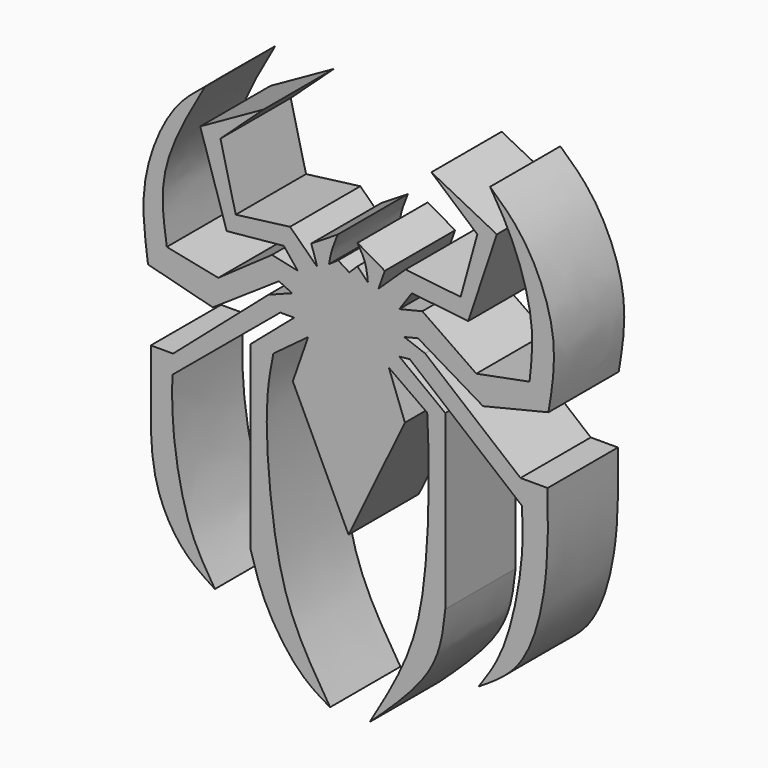
from build123d import *

# Parameters (mm, degrees)
F1_DEPTH = 25.4


with BuildPart() as f1:
    # F0 (on Front) → F1 (new body)
    with BuildSketch(Plane.XZ):
        with BuildLine():
            Line((-36.4322289824, 12.1776238084), (-26.3680759817, 19.6250956506))
            Line((-26.3680759817, 19.6250956506), (-30.7963024825, 6.9442642853))
            Line((-30.7963024825, 6.9442642853), (-14.6936606616, -26.8712826073))
            Line((-14.6936606616, -26.8712826073), (1.6102636, 6.9442642853))
            Line((1.6102636, 6.9442642853), (-3.0192458071, 19.4238107651))
            Line((-3.0192458071, 19.4238107651), (8.0513199791, 11.5737747401))
            add(Edge.make_bspline(
                [(-8.539903909, -72.529733181), (-5.5298175025, -67.4291319873), (0.671369104, -56.9212011388), (7.5010896056, -38.6584394427), (8.8485062582, -6.0565384462), (8.2888064124, 6.3216018094), (8.0513199791, 11.5737747401)],
                knots=[0, 0, 0, 0, 0.2265678753, 0.466760579, 0.7737409987, 1, 1, 1, 1], degree=3))
            add(Edge.make_bspline(
                [(13.2846795022, -36.7341525853), (12.7159700105, -41.9814211739), (11.4137758116, -53.9962772925), (-1.3503029933, -65.8518595611), (-8.539903909, -72.529733181)],
                knots=[0, 0, 0, 0, 0.4367317042, 1, 1, 1, 1], degree=3))
            Line((13.2846795022, -36.7341525853), (13.2846795022, 13.1840375252))
            Line((13.2846795022, 13.1840375252), (0, 23.2481881976))
            Line((0, 23.2481881976), (3.0102304372, 23.5418692159))
            Line((3.0102304372, 23.5418692159), (35.4457411612, -3.2115069692))
            add(Edge.make_bspline(
                [(22.9310896248, -53.2794632018), (25.4561163969, -49.6894712594), (31.2619106567, -41.435002498), (36.0497072594, -17.3833263421), (35.6284960933, -7.4997772809), (35.4457411612, -3.2115069692)],
                knots=[0, 0, 0, 0, 0.3034813899, 0.6977947842, 1, 1, 1, 1], degree=3))
            add(Edge.make_bspline(
                [(42.8732857108, 3.7237356883), (42.9419768966, -0.6242385053), (43.089385872, -9.9548449559), (41.8552231799, -27.387745044), (35.8065129434, -45.2180128452), (27.0667549953, -50.6900756336), (22.9310896248, -53.2794632018)],
                knots=[0, 0, 0, 0, 0.2301910986, 0.4939823591, 0.7605517628, 1, 1, 1, 1], degree=3))
            Line((42.8732857108, 3.7237356883), (35.0232459605, 3.7237356883))
            Line((35.0232459605, 3.7237356883), (7.4474713765, 26.4687165618))
            Line((7.4474713765, 26.4687165618), (1.4089808101, 28.6828298122))
            Line((1.4089808101, 28.6828298122), (5.4076748606, 29.6522101201))
            Line((5.4076748606, 29.6522101201), (24.194162339, 18.4860005975))
            Line((24.194162339, 18.4860005975), (43.106447074, 23.0707965754))
            add(Edge.make_bspline(
                [(26.2252576649, 74.9779269099), (29.6698417944, 71.8623759308), (37.3610362325, 64.9058588415), (46.4578230677, 43.2829715579), (44.2058474785, 29.7012890641), (43.106447074, 23.0707965754)],
                knots=[0, 0, 0, 0, 0.293358708, 0.6550221388, 1, 1, 1, 1], degree=3))
            add(Edge.make_bspline(
                [(26.2252576649, 74.9779269099), (28.3474149897, 71.5501339246), (33.0834738819, 63.9002630792), (39.3930720831, 44.8851357539), (38.203019559, 34.160136648), (37.6399233937, 29.0853977203)],
                knots=[0, 0, 0, 0, 0.2995825373, 0.6685840504, 1, 1, 1, 1], degree=3))
            Line((37.6399233937, 29.0853977203), (22.2586813173, 26.1241192863))
            Line((22.2586813173, 26.1241192863), (6.6423402168, 36.9354337454))
            Line((6.6423402168, 36.9354337454), (0, 35.3251695633))
            Line((0, 35.3251695633), (3.6230948754, 40.5585281551))
            Line((3.6230948754, 40.5585281551), (19.9270192534, 38.7469828129))
            Line((19.9270192534, 38.7469828129), (28.1796231866, 63.5047927499))
            Line((28.1796231866, 63.5047927499), (9.2590199783, 73.1663778424))
            Line((9.2590199783, 73.1663778424), (22.5436985493, 61.6932436824))
            Line((22.5436985493, 61.6932436824), (17.7129078656, 44.1816225648))
            Line((17.7129078656, 44.1816225648), (1.8115479033, 45.993167907))
            Line((1.8115479033, 45.993167907), (-6.0384911485, 38.5456979275))
            Line((-6.0384911485, 38.5456979275), (-4.204464145, 43.6895005405))
            Line((-4.204464145, 43.6895005405), (-12.1035818011, 48.2374802232))
            add(Edge.make_bspline(
                [(-12.1035818011, 48.2374802232), (-11.2764509271, 46.8880557358), (-9.6011168855, 44.1548283208), (-9.2676791017, 40.8445549043), (-9.0988632253, 39.1685999437)],
                knots=[0, 0, 0, 0, 0.4937110172, 1, 1, 1, 1], degree=3))
            Line((-9.0988632253, 39.1685999437), (-12.1035818011, 42.2694329172))
            Line((-12.1035818011, 42.2694329172), (-14.4923776388, 39.9546809494))
            Line((-14.4923776388, 39.9546809494), (-17.712906003, 41.9675111771))
            Line((-17.712906003, 41.9675111771), (-20.3295852989, 40.1559621096))
            add(Edge.make_bspline(
                [(-17.8483948112, 48.476845026), (-18.4749692932, 46.9327465619), (-19.6605585437, 44.0110403751), (-20.115212391, 41.3912256195), (-20.3295852989, 40.1559621096)],
                knots=[0, 0, 0, 0, 0.5284920404, 1, 1, 1, 1], degree=3))
            Line((-17.8483948112, 48.476845026), (-25.4624815705, 43.7478435523))
            Line((-25.4624815705, 43.7478435523), (-23.7513966858, 38.3444167674))
            Line((-23.7513966858, 38.3444167674), (-31.6014327109, 45.993167907))
            Line((-31.6014327109, 45.993167907), (-47.3015084863, 43.9803414047))
            Line((-47.3015084863, 43.9803414047), (-51.729734987, 61.8945285678))
            Line((-51.729734987, 61.8945285678), (-39.2501913011, 73.3676627278))
            Line((-39.2501913011, 73.3676627278), (-57.5669445097, 63.1022304296))
            Line((-57.5669445097, 63.1022304296), (-49.9181896448, 38.948263973))
            Line((-49.9181896448, 38.948263973), (-33.4129817784, 40.5585281551))
            Line((-33.4129817784, 40.5585281551), (-29.3873213232, 35.5264544487))
            Line((-29.3873213232, 35.5264544487), (-36.8347913027, 37.1367186308))
            Line((-36.8347913027, 37.1367186308), (-52.3335859179, 26.267433539))
            Line((-52.3335859179, 26.267433539), (-67.2285333276, 29.2866788805))
            add(Edge.make_bspline(
                [(-56.2034733593, 73.6641660333), (-61.1444043649, 64.9834714788), (-70.1639673597, 49.1370507769), (-68.1425947811, 35.4678635333), (-67.2285333276, 29.2866788805)],
                knots=[0, 0, 0, 0, 0.5478015962, 1, 1, 1, 1], degree=3))
            add(Edge.make_bspline(
                [(-56.2034733593, 73.6641660333), (-59.3451927185, 71.1733267977), (-66.60773384, 65.4153897232), (-75.5386939948, 43.9944008325), (-73.6153653527, 29.9834038748), (-72.6631730795, 23.0469070375)],
                knots=[0, 0, 0, 0, 0.2779550238, 0.6425334536, 1, 1, 1, 1], degree=3))
            Line((-72.6631730795, 23.0469070375), (-53.9438501, 18.2161126286))
            Line((-53.9438501, 18.2161126286), (-34.8219648004, 31.0982260853))
            Line((-34.8219648004, 31.0982260853), (-30.9975855052, 29.2866788805))
            Line((-30.9975855052, 29.2866788805), (-37.8412082791, 26.6700014472))
            Line((-37.8412082791, 26.6700014472), (-65.4169842601, 2.7173208073))
            Line((-65.4169842601, 2.7173208073), (-71.8580409884, 2.7173208073))
            add(Edge.make_bspline(
                [(-71.8580409884, 2.7173208073), (-71.8323808051, -0.6743290469), (-71.7707586489, -8.819273873), (-72.3514628162, -31.1556090613), (-63.3168519567, -46.9122797723), (-56.4054375512, -51.3169694206), (-53.3260814846, -53.2794632018)],
                knots=[0, 0, 0, 0, 0.2151105122, 0.5165814068, 0.784614568, 1, 1, 1, 1], degree=3))
            add(Edge.make_bspline(
                [(-53.3260814846, -53.2794632018), (-56.0259363166, -49.0184463117), (-61.9673181702, -39.6415242162), (-65.9171343123, -16.4717993255), (-65.7087984168, -6.8839300031), (-65.6182616949, -2.7173208073)],
                knots=[0, 0, 0, 0, 0.3201642849, 0.7045631676, 1, 1, 1, 1], degree=3))
            Line((-65.6182616949, -2.7173208073), (-34.4193968922, 23.2481881976))
            Line((-34.4193968922, 23.2481881976), (-30.393736437, 23.2481881976))
            Line((-30.393736437, 23.2481881976), (-43.0745668709, 12.3789058998))
            Line((-43.0745668709, 12.3789058998), (-43.0745668709, -39.5521149039))
            add(Edge.make_bspline(
                [(-43.0745668709, -39.5521149039), (-41.8262985236, -43.8907788266), (-39.2078569373, -52.9918171315), (-29.1900934235, -67.2654171685), (-22.8102743449, -70.9265355416), (-20.0165621936, -72.529733181)],
                knots=[0, 0, 0, 0, 0.3386642474, 0.7104021751, 1, 1, 1, 1], degree=3))
            add(Edge.make_bspline(
                [(-20.0165621936, -72.529733181), (-23.3797839012, -67.1871365793), (-30.2770206692, -56.2306320954), (-36.3841217142, -37.273284048), (-39.4008360571, -2.9353787105), (-37.2794445977, 7.8644993682), (-36.4322289824, 12.1776238084)],
                knots=[0, 0, 0, 0, 0.2324437246, 0.4766915604, 0.7910074166, 1, 1, 1, 1], degree=3))
        make_face()
    extrude(amount=F1_DEPTH)


solid = f1.part
